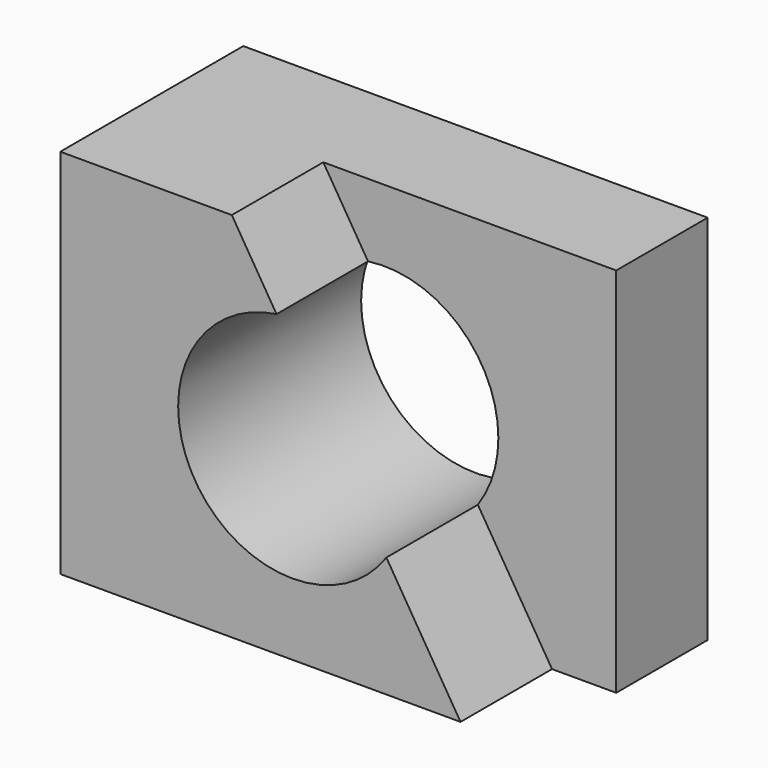
from build123d import *

# Parameters (mm, degrees)
F0_W     = 103.156984
F0_H     = 82.587916
F1_DEPTH = 25.4
F3_DEPTH = 25.4
F4_R     = 25.4
F5_DEPTH = 127


with BuildPart() as f1:
    # F0 (on Front) → F1 (new body)
    with BuildSketch(Plane.XZ):
        with Locations((4.793879, -9.056745)):
            Rectangle(F0_W, F0_H)
    extrude(amount=-F1_DEPTH)

    # F2 (on face) → F3 (join)
    with BuildSketch(Plane.XZ):
        Polygon((-8.684613, 32.237213), (-46.784613, 32.237213), (-46.784613, -50.350703), (42.115387, -50.350703), align=None)
    extrude(amount=F3_DEPTH)

    # F4 (on face) → F5 (cut)
    with BuildSketch(Plane(origin=(0, 25.4, 0), x_dir=(-1, 0, 0), z_dir=(0, 1, 0))):
        with Locations((-4.793879, -9.056745)):
            Circle(F4_R)
    extrude(amount=-F5_DEPTH, mode=Mode.SUBTRACT)


solid = f1.part
